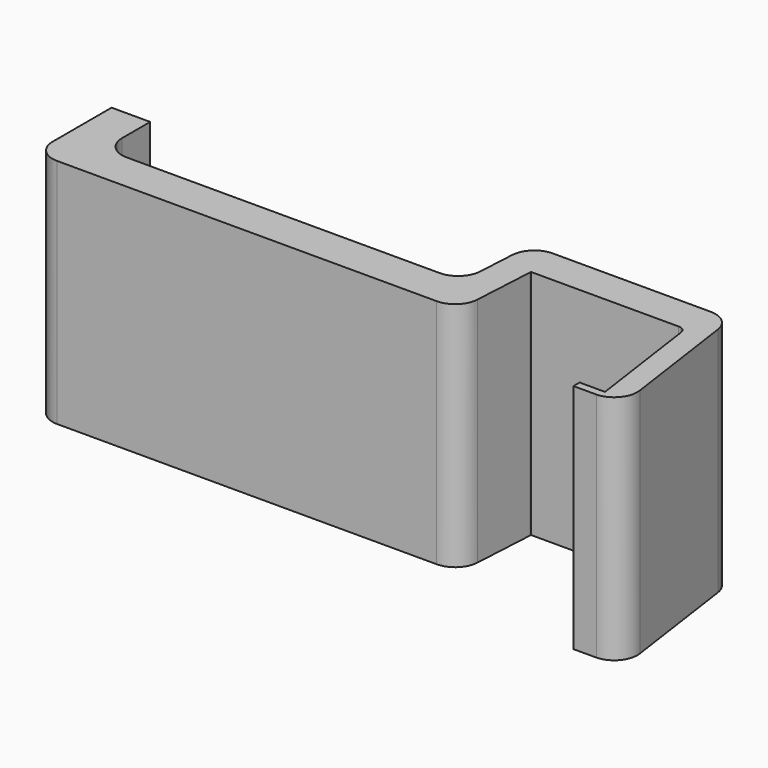
from build123d import *

# Parameters (mm, degrees)
F1_DEPTH  = 30
F1_FACE_W = 0.99785
F1_FACE_H = 30
F2_DEPTH  = 3


with BuildPart() as f1:
    # F0 (on Top) → F1 (new body)
    with BuildSketch(Plane.XY):
        with BuildLine():
            ThreePointArc((-50.862886, -7.958589), (-49.984207, -10.07991), (-47.862886, -10.958589))
            Line((-47.862886, -10.958589), (1.29883, -10.958589))
            ThreePointArc((1.29883, -10.958589), (3.360601, -10.137833), (4.29423, -8.124658))
            Line((4.29423, -8.124658), (4.73644, -0.148474))
            Line((4.73644, -0.148474), (4.744672, 0))
            Line((4.744672, 0), (9.380593, 0))
            Line((9.380593, 0), (23.877159, 0))
            ThreePointArc((23.877159, 0), (24.532454, -0.244627), (24.867143, -0.858825))
            Line((24.867143, -0.858825), (27.003476, -15.839754))
            Line((27.003476, -15.839754), (26.708684, -15.839754))
            Line((26.708684, -15.839754), (26.708684, -16.837603))
            ThreePointArc((26.708684, -16.837603), (28.898037, -15.762383), (29.565059, -13.416228))
            Line((29.565059, -13.416228), (27.37089, 1.970275))
            ThreePointArc((27.37089, 1.970275), (26.366823, 3.812867), (24.400936, 4.546749))
            Line((24.400936, 4.546749), (3.933248, 4.546749))
            ThreePointArc((3.933248, 4.546749), (1.871477, 3.725993), (0.937848, 1.712818))
            Line((0.937848, 1.712818), (0.669652, -3.124658))
            ThreePointArc((0.669652, -3.124658), (-0.263978, -5.137833), (-2.325748, -5.958589))
            Line((-2.325748, -5.958589), (-42.862886, -5.958589))
            ThreePointArc((-42.862886, -5.958589), (-44.984207, -5.07991), (-45.862886, -2.958589))
            Line((-45.862886, -2.958589), (-45.862886, 1.602761))
            Line((-45.862886, 1.602761), (-50.862886, 1.602761))
            Line((-50.862886, 1.602761), (-50.862886, -7.958589))
        make_face()
    extrude(amount=F1_DEPTH)

    # F1_face (on face) → F2 (join)
    with BuildSketch(Plane(origin=(26.708684, -16.338679, 15), x_dir=(0, -1, 0), z_dir=(-1, 0, 0))):
        Rectangle(F1_FACE_W, F1_FACE_H)
    extrude(amount=F2_DEPTH)


solid = f1.part
